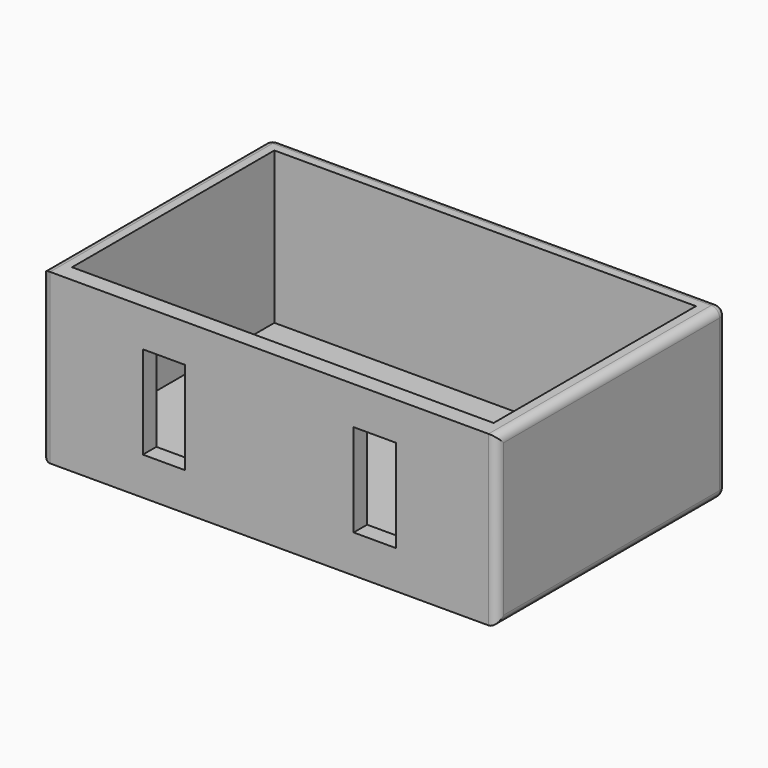
from build123d import *

# Parameters (mm, degrees)
F0_W     = 54
F0_H     = 20
F1_DEPTH = 34
F2_W     = 50
F2_H     = 30
F3_DEPTH = 18
F5_W     = 5
F5_H     = 11
F6_DEPTH = 5
F7_R     = 1


with BuildPart() as f1:
    # F0 (on Front) → F1 (new body)
    with BuildSketch(Plane.XZ):
        with Locations((27, -10)):
            Rectangle(F0_W, F0_H)
    extrude(amount=F1_DEPTH)

    # F2 (on Top) → F3 (cut)
    with BuildSketch(Plane.XY):
        with Locations((27, -17)):
            Rectangle(F2_W, F2_H)
    extrude(amount=-F3_DEPTH, mode=Mode.SUBTRACT)

    # F5 (on offset) → F6 (cut)
    with BuildSketch(Plane(origin=(0, -32, 0), x_dir=(-1, 0, 0), z_dir=(0, 1, 0))):
        with Locations((-14.5, -10)):
            Rectangle(F5_W, F5_H)
        with Locations((-39.5, -9.9999997467)):
            Rectangle(F5_W, F5_H)
    extrude(amount=-F6_DEPTH, mode=Mode.SUBTRACT)

    # F7
    f7_edges = [f1.edges().sort_by_distance(p)[0] for p in [
        (54, -17, -20),
        (54, -17, 0),
        (54, 0, -10),
        (54, -34, -10),
        (27, 0, 0),
        (0, 0, -10),
        (27, 0, -20),
        (0, -17, 0),
        (0, -17, -20),
        (0, -34, -10),
    ]]
    fillet(f7_edges, radius=F7_R)


solid = f1.part
